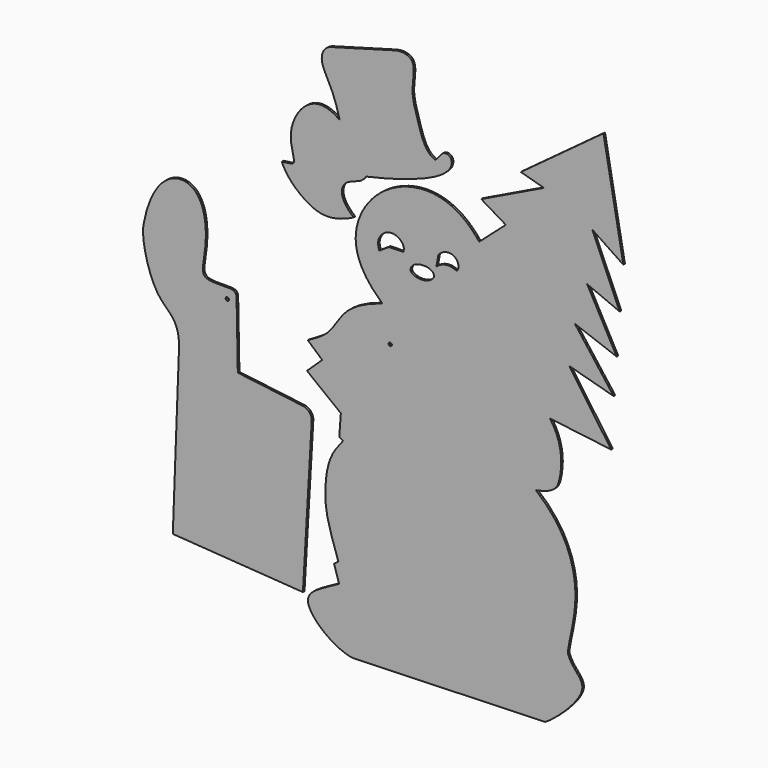
from build123d import *

# Parameters (mm, degrees)
F0_R     = 3.175
F1_DEPTH = 3.81
F2_DEPTH = 3.81
F3_DEPTH = 3.81


with BuildPart() as f1:
    # F0 (on Front) → F1 (new body)
    with BuildSketch(Plane.XZ):
        with BuildLine():
            add(Edge.make_bspline(
                [(577.5301456451, -819.3663954735), (528.1828455236, -775.2097354619), (511.8682646711, -695.7693412774), (603.6466815031, -591.7203471431), (716.3102957828, -594.8701009791), (762.9569310114, -655.1693814075)],
                knots=[0, 0, 0, 0, 0.3293668885, 0.637001862, 1, 1, 1, 1], degree=3))
            add(Edge.make_bspline(
                [(577.5301456451, -819.3663954735), (548.4415590763, -828.8691043854), (505.7238427203, -848.2158835695), (478.3801648961, -904.3760548657), (454.5234614416, -916.3610723098), (435.1778030396, -927.7024269104)],
                knots=[0, 0, 0, 0, 0.3789939307, 0.6958266706, 1, 1, 1, 1], degree=3))
            Line((435.1778030396, -927.7024269104), (462.6617431641, -952.0492553711))
            Line((462.6617431641, -952.0492553711), (433.4862232208, -979.689180851))
            Line((433.4862232208, -979.689180851), (498.3033835888, -1030.20632267))
            Line((498.3033835888, -1030.20632267), (495.2631294727, -1071.4668035507))
            Line((495.2631294727, -1071.4668035507), (502.6465654373, -1075.1584768295))
            add(Edge.make_bspline(
                [(502.6465654373, -1075.1584768295), (488.6894524097, -1092.4161672592), (470.9415864608, -1117.8422471962), (464.9083709305, -1202.6021949076), (480.424195528, -1241.6837215424), (493.5157001019, -1281.7008495331)],
                knots=[0, 0, 0, 0, 0.2896237354, 0.6260496393, 1, 1, 1, 1], degree=3))
            Line((493.5157001019, -1281.7008495331), (485.2193295956, -1288.0431413651))
            Line((485.2193295956, -1288.0431413651), (494.8991835117, -1318.7214136124))
            add(Edge.make_bspline(
                [(494.8991835117, -1318.7214136124), (465.0806188583, -1336.5308046341), (396.7716459328, -1359.252285007), (485.4855239391, -1431.0497045517), (521.6368436813, -1435.2991580963)],
                knots=[0, 0, 0, 0, 0.4556345052, 1, 1, 1, 1], degree=3))
            Line((521.6368436813, -1435.2991580963), (889.3482685089, -1423.1382608414))
            add(Edge.make_bspline(
                [(933.3438873291, -1294.8722839355), (941.4881642767, -1317.7783897819), (992.6141344167, -1338.4569526546), (906.9065451622, -1413.454413414), (889.3482685089, -1423.1382608414)],
                knots=[0, 0, 0, 0, 0.4234968758, 1, 1, 1, 1], degree=3))
            add(Edge.make_bspline(
                [(871.6471791267, -1038.3514165878), (927.4149873158, -1084.2346286341), (965.7941767446, -1183.490102748), (930.3771163262, -1286.5281213963), (933.3438873291, -1294.8722839355)],
                knots=[0, 0, 0, 0, 0.5771320349, 1, 1, 1, 1], degree=3))
            add(Edge.make_bspline(
                [(898.52643013, -908.7656140327), (923.6634969711, -942.9339766502), (920.5779555974, -1007.8859988599), (908.2981348038, -1031.3572883606), (871.6471791267, -1038.3514165878)],
                knots=[0, 0, 0, 0, 0.5632045881, 1, 1, 1, 1], degree=3))
            Line((898.52643013, -908.7656140327), (1015.8278942108, -923.1802821159))
            Line((1015.8278942108, -923.1802821159), (935.2338910103, -808.2593679428))
            Line((935.2338910103, -808.2593679428), (1020.4664468765, -831.5346837044))
            Line((1020.4664468765, -831.5346837044), (946.266412735, -733.7628602982))
            Line((946.266412735, -733.7628602982), (1026.2647867203, -763.0904912949))
            Line((1026.2647867203, -763.0904912949), (969.7105288506, -659.2663526535))
            Line((969.7105288506, -659.2663526535), (1032.0630073547, -685.3656768799))
            Line((1032.0630073547, -685.3656768799), (979.3639779091, -564.0763640404))
            Line((979.3639779091, -564.0763640404), (1039.0208959579, -604.1606664658))
            Line((1039.0208959579, -604.1606664658), (1000.9149312973, -395.1109349728))
            Line((1000.9149312973, -395.1109349728), (842.8366184235, -511.6528868675))
            Line((842.8366184235, -511.6528868675), (886.9666457176, -524.0690112114))
            Line((886.9666457176, -524.0690112114), (766.9880390167, -582.0107460022))
            Line((766.9880390167, -582.0107460022), (813.9998316765, -610.1028323174))
            Line((813.9998316765, -610.1028323174), (762.9569310114, -655.1693814075))
        make_face()
        with Locations((592.8269028664, -883.3821415901)):
            Circle(F0_R, mode=Mode.SUBTRACT)
        with BuildLine():
            Line((590.2343392372, -720.2050685883), (571.7921853065, -732.428252697))
            add(Edge.make_bspline(
                [(571.7921853065, -732.428252697), (570.3371483959, -727.3156040261), (567.2004990612, -716.2941749928), (580.2634803929, -696.2532951535), (603.8850913859, -692.6030162823), (620.1884561261, -707.6096414004), (618.8467900169, -715.9149686406), (618.2691454887, -719.4907665253)],
                knots=[0, 0, 0, 0, 0.1904069281, 0.410463652, 0.6330720336, 0.8420218484, 1, 1, 1, 1], degree=3))
            Line((618.2691454887, -719.4907665253), (590.2343392372, -720.2050685883))
        make_face(mode=Mode.SUBTRACT)
        with BuildLine():
            add(Edge.make_bspline(
                [(631.7122578621, -744.9688911438), (631.7122578621, -751.3226270676), (656.3804391973, -760.548485088), (677.4371511594, -746.3113254518), (676.7178177834, -740.5565977097)],
                knots=[0, 0, 0, 0, 0.5013378355, 1, 1, 1, 1], degree=3))
            add(Edge.make_bspline(
                [(631.7122578621, -744.9688911438), (632.841887737, -734.9903031643), (652.3922938692, -726.7663940261), (674.9528646469, -731.3789725304), (676.7178177834, -740.5565977097)],
                knots=[0, 0, 0, 0, 0.5023619674, 1, 1, 1, 1], degree=3))
        make_face(mode=Mode.SUBTRACT)
        with BuildLine():
            add(Edge.make_bspline(
                [(681.2216639519, -723.332464695), (688.6807384257, -717.0855008441), (703.6885591516, -712.3479853933), (714.3269764947, -716.0198047743), (720.31468153, -717.949450016)],
                knots=[0, 0, 0, 0, 0.544327007, 1, 1, 1, 1], degree=3))
            Line((681.2216639519, -723.332464695), (684.8397254944, -703.1241059303))
            add(Edge.make_bspline(
                [(684.8397254944, -703.1241059303), (691.8112039566, -692.9758191109), (719.2801227268, -686.6265137394), (726.2271642685, -712.0369672775), (720.31468153, -717.949450016)],
                knots=[0, 0, 0, 0, 0.5390144085, 1, 1, 1, 1], degree=3))
        make_face(mode=Mode.SUBTRACT)
    extrude(amount=F1_DEPTH)


with BuildPart() as f2:
    # F0 (on Front) → F2 (new body, through all)
    with BuildSketch(Plane.XZ):
        with BuildLine():
            Line((188.2380843163, -1029.4947624207), (176.6659766436, -1338.1580114365))
            Line((176.6659766436, -1338.1580114365), (425.694912672, -1355.2285432816))
            Line((425.694912672, -1355.2285432816), (442.6029569468, -1061.4581481235))
            ThreePointArc((442.6029569468, -1061.4581481235), (438.2124855151, -1048.1601490776), (425.9169932078, -1041.456874733))
            Line((425.9169932078, -1041.456874733), (301.1150658131, -1026.0597467422))
            Line((301.1150658131, -1026.0597467422), (298.6874580383, -898.8275527954))
            add(Edge.make_bspline(
                [(269.8233425617, -888.7588381767), (285.2829094871, -888.9815762485), (297.359675169, -886.3037824631), (298.6874580383, -898.8275527954)],
                knots=[0, 0, 0, 0, 30.569857316, 30.569857316, 30.569857316, 30.569857316], degree=3))
            add(Edge.make_bspline(
                [(238.992869854, -833.6080908775), (237.5793856275, -855.514381618), (223.0315504622, -892.3171920893), (261.6593160165, -888.6412126611), (269.8233425617, -888.7588381767)],
                knots=[0, 0, 0, 0, 0.5548061955, 1, 1, 1, 1], degree=3))
            add(Edge.make_bspline(
                [(120.3411370516, -836.2656235695), (130.1100999117, -780.3901433945), (177.704587178, -707.7777298713), (245.721578598, -752.2519230843), (238.992869854, -833.6080908775)],
                knots=[0, 0, 0, 0, 0.5069311132, 1, 1, 1, 1], degree=3))
            add(Edge.make_bspline(
                [(120.3411370516, -836.2656235695), (116.6526824236, -861.7463707924), (141.5753776599, -967.9110663), (191.9240802526, -971.8928337097), (188.2380843163, -1029.4947624207)],
                knots=[0, 0, 0, 0, 0.5240361773, 1, 1, 1, 1], degree=3))
        make_face()
        with Locations((281.033217907, -908.3706140518)):
            Circle(F0_R, mode=Mode.SUBTRACT)
    extrude(amount=F2_DEPTH)


with BuildPart() as f3:
    # F0 (on Front) → F3 (new body, through all)
    with BuildSketch(Plane.XZ):
        with BuildLine():
            add(Edge.make_bspline(
                [(679.1345477104, -544.5263981819), (685.6102347374, -538.8447642326), (691.8369083522, -524.7143048759), (711.5607431566, -528.4281101081), (712.1838470594, -566.1055607905), (630.5016875267, -596.9364643097), (546.7824339867, -615.6299114227)],
                knots=[0, 0, 0, 0, 0.1829002389, 0.3226989396, 0.495471447, 1, 1, 1, 1], degree=3))
            add(Edge.make_bspline(
                [(638.4124159813, -464.2289578915), (644.5713807562, -482.0536816239), (653.8030748365, -532.0553291078), (675.8939623833, -543.9748167992), (679.1345477104, -544.5263981819)],
                knots=[0, 0, 0, 0, 0.6380082999, 1, 1, 1, 1], degree=3))
            add(Edge.make_bspline(
                [(597.2914099693, -386.4045143127), (612.5478863529, -381.3103679297), (645.3129339724, -384.6174029742), (632.446192358, -437.3401651359), (636.9505614508, -456.3789591398), (638.4124159813, -464.2289578915)],
                knots=[0, 0, 0, 0, 0.3392562745, 0.7070063482, 1, 1, 1, 1], degree=3))
            Line((597.2914099693, -386.4045143127), (478.3742129803, -419.5556182318))
            add(Edge.make_bspline(
                [(478.3742129803, -419.5556182318), (465.6175374985, -424.5383143425), (455.4714743401, -447.4592706966), (481.4218654099, -487.4176378948), (490.8986630412, -516.7832910175), (496.188223362, -537.0917320251)],
                knots=[0, 0, 0, 0, 0.2860951067, 0.6232047662, 1, 1, 1, 1], degree=3))
            add(Edge.make_bspline(
                [(385.2455615997, -642.9407596588), (402.6290316883, -640.673366181), (410.9874153651, -640.3434295813), (405.3568941361, -617.2884205486), (394.0607638221, -566.874646932), (450.376656239, -502.5577473745), (496.188223362, -537.0917320251)],
                knots=[0, 0, 0, 0, 0.1893788908, 0.3459015416, 0.62411614, 1, 1, 1, 1], degree=3))
            add(Edge.make_bspline(
                [(385.2455615997, -642.9407596588), (393.0871784687, -662.9540324211), (435.7935732461, -705.871909198), (481.3249111176, -713.128387928), (522.8850245476, -692.3216581345)],
                knots=[0, 0, 0, 0, 0.473668011, 1, 1, 1, 1], degree=3))
            add(Edge.make_bspline(
                [(546.7824339867, -615.6299114227), (539.304792881, -625.1639127731), (531.9757341713, -628.7575376013), (501.7486927929, -637.6879373636), (497.4332380951, -667.1145675628), (513.8134245426, -684.5658607872), (522.8850245476, -692.3216581345)],
                knots=[0, 0, 0, 0, 0.2276528799, 0.4761410512, 0.7141142056, 1, 1, 1, 1], degree=3))
        make_face()
    extrude(amount=F3_DEPTH)


solid = Compound([f1.part, f2.part, f3.part])
